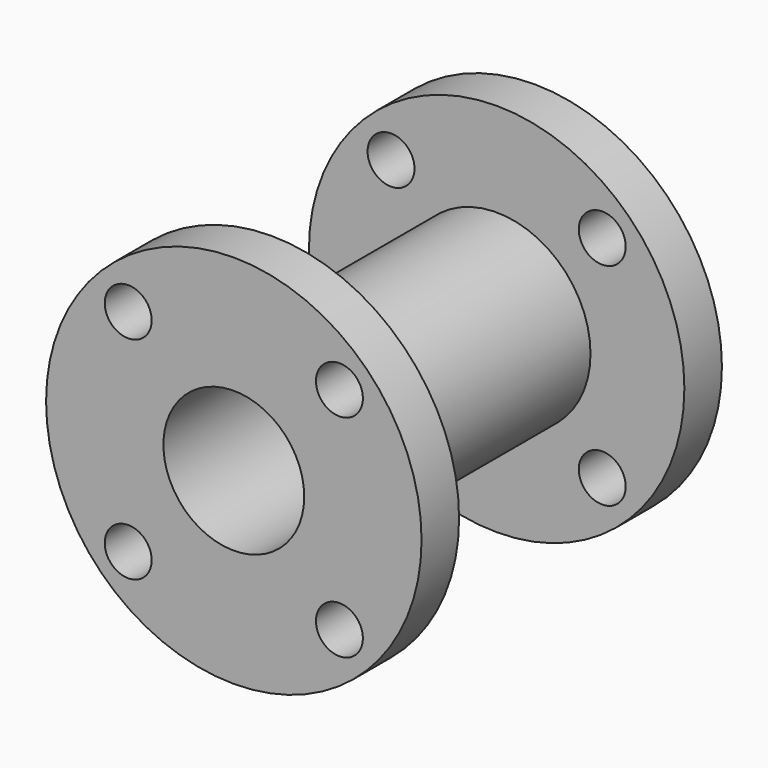
from build123d import *

# Parameters (mm, degrees)
F0_R     = 50.8
F0_R_2   = 6.35
F0_R_3   = 25.4
F0_R_4   = 19.05
F1_DEPTH = 12.7
F2_R     = 25.4
F2_R_2   = 19.05
F3_DEPTH = 76.2
F4_R     = 50.8
F4_R_2   = 6.35
F4_R_3   = 25.4
F4_R_4   = 19.05
F5_DEPTH = 12.7


with BuildPart() as f1:
    # F0 (on Front) → F1 (new body)
    with BuildSketch(Plane.XZ):
        Circle(F0_R)
        with Locations((-28.575, -28.575)):
            Circle(F0_R_2, mode=Mode.SUBTRACT)
        Circle(F0_R_3, mode=Mode.SUBTRACT)
        with Locations((28.575, -28.575)):
            Circle(F0_R_2, mode=Mode.SUBTRACT)
        with Locations((-28.575, 28.575)):
            Circle(F0_R_2, mode=Mode.SUBTRACT)
        with Locations((28.575, 28.575)):
            Circle(F0_R_2, mode=Mode.SUBTRACT)
        Circle(F0_R_3)
        Circle(F0_R_4, mode=Mode.SUBTRACT)
    extrude(amount=F1_DEPTH)

    # F2 (on face) → F3 (join)
    with BuildSketch(Plane.XZ.offset(12.7)):
        Circle(F2_R)
        Circle(F2_R_2, mode=Mode.SUBTRACT)
    extrude(amount=F3_DEPTH)

    # F4 (on face) → F5 (join)
    with BuildSketch(Plane.XZ.offset(88.9)):
        Circle(F4_R)
        with Locations((-28.575, -28.575)):
            Circle(F4_R_2, mode=Mode.SUBTRACT)
        Circle(F4_R_3, mode=Mode.SUBTRACT)
        with Locations((28.575, -28.575)):
            Circle(F4_R_2, mode=Mode.SUBTRACT)
        with Locations((-28.575, 28.575)):
            Circle(F4_R_2, mode=Mode.SUBTRACT)
        with Locations((28.575, 28.575)):
            Circle(F4_R_2, mode=Mode.SUBTRACT)
        Circle(F4_R_3)
        Circle(F4_R_4, mode=Mode.SUBTRACT)
    extrude(amount=F5_DEPTH)


solid = f1.part
